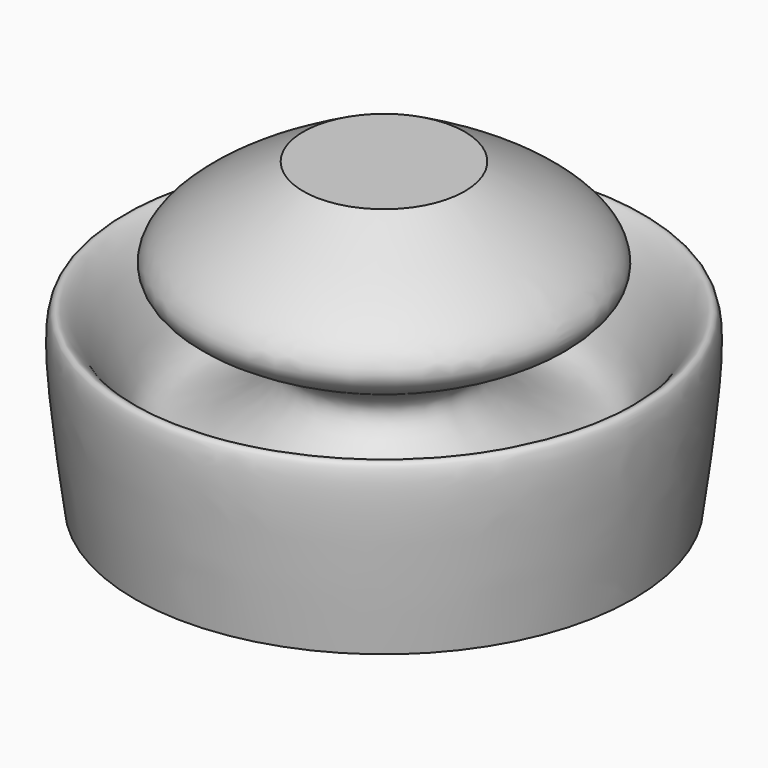
from build123d import *


with BuildPart() as f1:
    # F0 (on Front) → F1 (revolve)
    with BuildSketch(Plane.XZ):
        with BuildLine():
            Line((0, 40.8136323094), (0, 0))
            Line((0, 0), (33.4717556834, 0))
            add(Edge.make_bspline(
                [(10.8359437436, 40.8136323094), (19.2624316138, 36.1020976015), (35.7329099738, 26.8928954234), (0.8430551506, 18.5908419927), (25.2967601948, 5.4277049742), (28.1547580819, 15.2731904931), (37.3918644018, 30.3356829385), (34.9589362397, 11.5085170001), (33.4717556834, 0)],
                knots=[0, 0, 0, 0, 0.1898170515, 0.3710178769, 0.5342418891, 0.6615936221, 0.7931416993, 1, 1, 1, 1], degree=3))
            Line((10.8359437436, 40.8136323094), (0, 40.8136323094))
        make_face()
    revolve(axis=Axis((0, 0, 20.4068161547), (0, 0, 1)))


solid = f1.part
